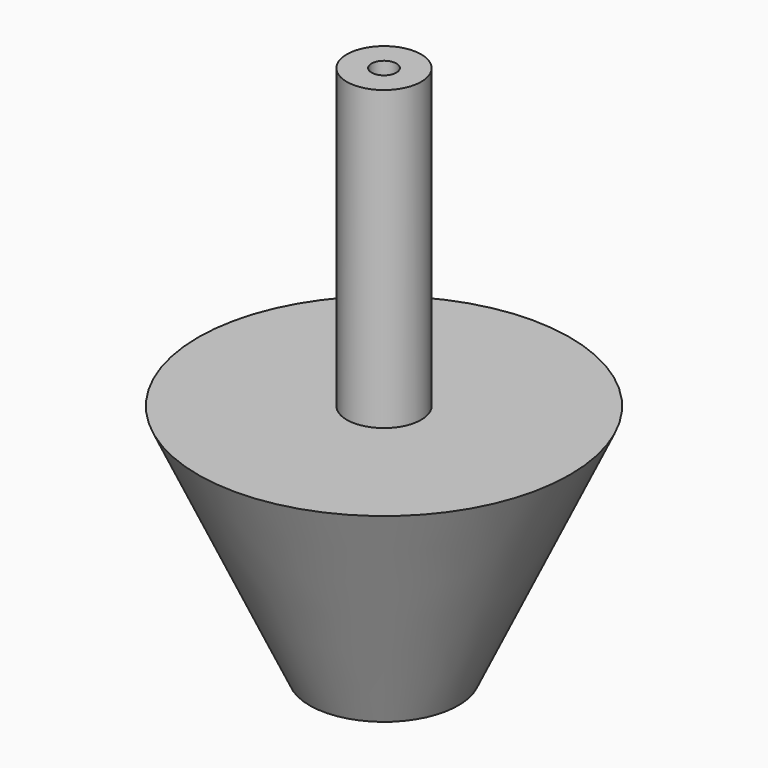
from build123d import *

# Parameters (mm, degrees)
F2_R     = 3.175
F3_DEPTH = 137.480285


with BuildPart() as f1:
    # F0 (on Front) → F1 (revolve)
    with BuildSketch(Plane.XZ):
        Polygon((-19.05, -61.279285), (0, -61.279285), (0, 76.2), (-9.525, 76.2), (-9.525, 0), (-47.625, 0), align=None)
    revolve(axis=Axis((0, 0, 7.460357), (0, 0, -1)))

    # F2 (on face) → F3 (cut, through all)
    with BuildSketch(Plane.XY.offset(76.2)):
        Circle(F2_R)
    extrude(amount=-F3_DEPTH, mode=Mode.SUBTRACT)


solid = f1.part
